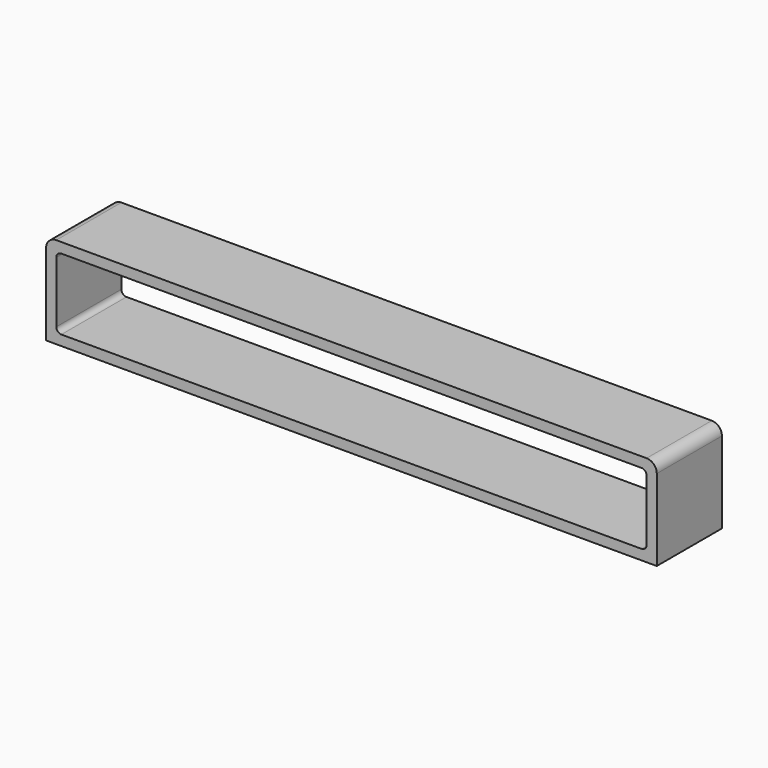
from build123d import *

# Parameters (mm, degrees)
F0_W     = 381
F0_H     = 57.15
F1_DEPTH = 50.8
F2_R     = 6.35
F4_W     = 368.3
F4_H     = 44.45
F5_DEPTH = 50.8
F6_R     = 3.175


with BuildPart() as f1:
    # F0 (on Front) → F1 (new body)
    with BuildSketch(Plane.XZ):
        Rectangle(F0_W, F0_H)
    extrude(amount=F1_DEPTH)

    # F2
    f2_edges = [f1.edges().sort_by_distance(p)[0] for p in [
        (190.5, -25.4, 28.575),
        (-190.5, -25.4, 28.575),
    ]]
    fillet(f2_edges, radius=F2_R)


with BuildPart() as f1_1:
    # F3: moved
    add(f1.part.moved(Location((0, 50.8, 0))))

    # F4 (on Front) → F5 (cut)
    with BuildSketch(Plane.XZ):
        Rectangle(F4_W, F4_H)
    extrude(amount=-F5_DEPTH, mode=Mode.SUBTRACT)

    # F6
    f6_edges = [f1_1.edges().sort_by_distance(p)[0] for p in [
        (184.15, 25.4, -22.225),
        (184.15, 25.4, 22.225),
        (-184.15, 25.4, 22.225),
        (-184.15, 25.4, -22.225),
    ]]
    fillet(f6_edges, radius=F6_R)


with BuildPart() as f1_2:
    # F7: moved
    add(f1_1.part.moved(Location((0, 50.8, 0))))


with BuildPart() as f1_3:
    # F8: moved
    add(f1_2.part.moved(Location((0, 0, -101.6))))


with BuildPart() as f1_4:
    # F9: moved
    add(f1_3.part.moved(Location((0, 50.8, 50.8))))


with BuildPart() as f1_5:
    # F10: moved
    add(f1_4.part.moved(Location((0, 50.8, 50.8))))


solid = f1_5.part
